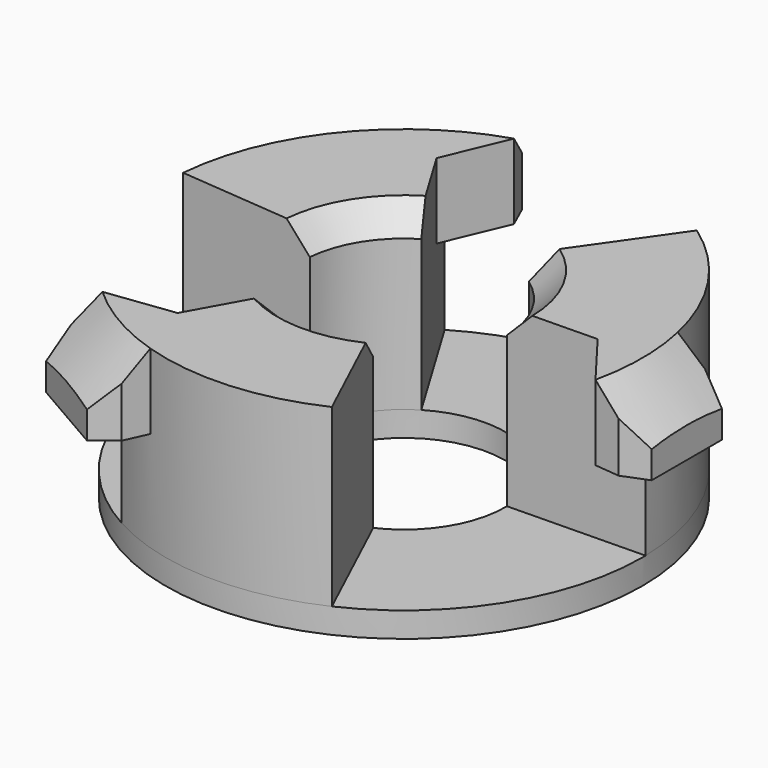
from build123d import *

# Parameters (mm, degrees)
SKETCH002_R        = 9.5
SKETCH002_R_2      = 4.05
PAD_DEPTH          = 1
PAD001_DEPTH       = 7
PAD002_DEPTH       = 3
POLARPATTERN_COUNT = 3


with BuildPart() as part:
    # Sketch002 → Pad (new body)
    with BuildSketch(Plane.XY):
        Circle(SKETCH002_R)
        Circle(SKETCH002_R_2, mode=Mode.SUBTRACT)
    extrude(amount=PAD_DEPTH)

    # Sketch003 (on Face4 of Pad) → Pad001 (join)
    with BuildSketch(Plane.XY.offset(1)):
        with BuildLine():
            ThreePointArc((4.0493831654, 0.0706822461), (3.5759377511, 1.9013598293), (2.3229845672, 3.3175657794))
            Line((5.4489761453, 7.7819444208), (2.3229845672, 3.3175657794))
            ThreePointArc((9.498553104, 0.1657978612), (8.3880021321, 4.4599798465), (5.4489761453, 7.7819444208))
            Line((4.0493831654, 0.0706822461), (9.498553104, 0.1657978612))
        make_face()
    pad001 = extrude(amount=PAD001_DEPTH)

    # Sketch004 (on Face8 of Pad001) → Pad002 (join)
    with BuildSketch(Plane.XY.offset(8)):
        Polygon((9.2761791703, 2.05), (10.2761791703, 2.15), (11.2761791703, 1.75), (11.2761791703, -1.75), (10.2761791703, -2.15), (9.2761791703, -2.05), (7.6151685504, 0.1329232615), align=None)
    pad002 = extrude(amount=-PAD002_DEPTH)

    # PolarPattern: Pad001, Pad002 ×3 about axis
    polarpattern_axis = Axis((0, 0, 1), (0, 0, 1))
    for i in range(1, POLARPATTERN_COUNT):
        add(pad001.rotate(polarpattern_axis, i * 360 / POLARPATTERN_COUNT))
        add(pad002.rotate(polarpattern_axis, i * 360 / POLARPATTERN_COUNT))

    # Sketch005 → Groove (revolve, cut)
    with BuildSketch(Plane.XZ):
        Polygon((3.0493831654, 11.2253084173), (3.0493831654, 6), (7.2746915827, 10.2253084173), (12.2761791703, 5.2238208297), (12.2761791703, 11.2253084173), align=None)
    revolve(axis=Axis((0, 0, 0), (0, 0, 1)), mode=Mode.SUBTRACT)


solid = part.part
